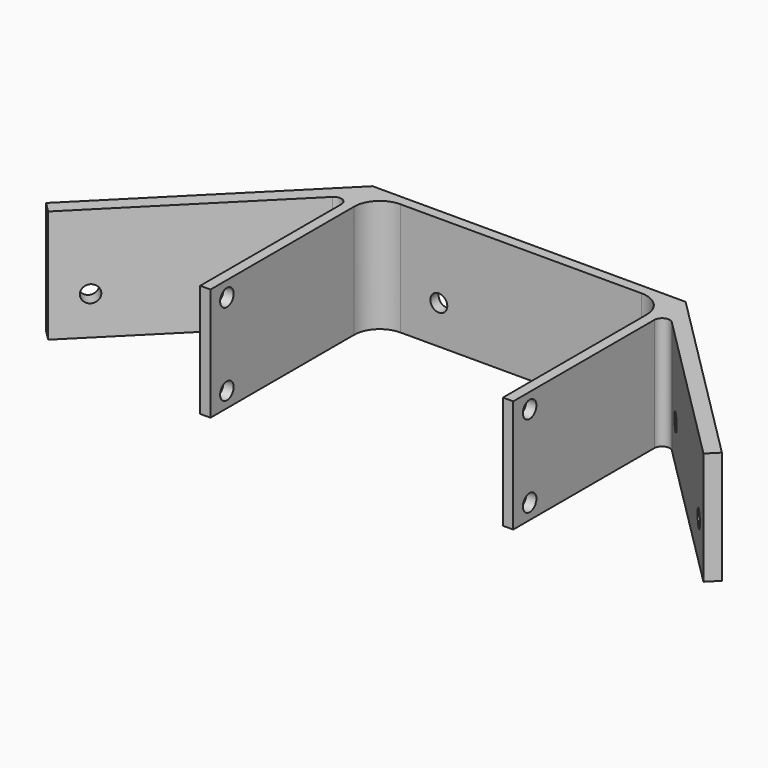
from build123d import *

# Parameters (mm, degrees)
F1_DEPTH  = 22
F3_D      = 3.3
F3_DEPTH  = 3
F3_TIP    = 0.9914200214
F4_R      = 1.5
F5_R      = 5
F7_D      = 3.3
F7_DEPTH  = 3
F7_TIP    = 0.9914200214
F9_D      = 3.3
F9_DEPTH  = 3
F9_TIP    = 0.9914200214
F11_D     = 3.3
F11_DEPTH = 63
F11_TIP   = 0.9914200214


with BuildPart() as f1:
    # F0 (on Top) → F1 (new body)
    with BuildSketch(Plane.XY):
        Polygon((-28.5, -20), (-28.5, 20), (28.5, 20), (28.5, -20), (30.5, -20), (30.5, 18), (63.8553390593, -15.3553390593), (65.8553390593, -13.3553390593), (30.5, 22), (-30.5, 22), (-65.8553390593, -13.3553390593), (-63.8553390593, -15.3553390593), (-30.5, 18), (-30.5, -20), align=None)
    extrude(amount=F1_DEPTH)

    # F3
    with Locations(Plane(origin=(26.25, 26.25, 0), x_dir=(-0.7071067812, 0.7071067812, 0), z_dir=(0.7071067812, 0.7071067812, 0))):
        with Locations((-17.5104076401, 7.5), (-49.5104076401, 7.5)):
            Hole(F3_D / 2, depth=F3_DEPTH)
            with Locations((0, 0, -(F3_DEPTH + F3_TIP / 2))):  # 118° drill point
                Cone(0, F3_D / 2, F3_TIP, mode=Mode.SUBTRACT)

    # F4
    f4_edges = [f1.edges().sort_by_distance(p)[0] for p in [
        (-30.5, 18, 11),
        (30.5, 18, 11),
    ]]
    fillet(f4_edges, radius=F4_R)

    # F5
    f5_edges = [f1.edges().sort_by_distance(p)[0] for p in [
        (-28.5, 20, 11),
        (28.5, 20, 11),
    ]]
    fillet(f5_edges, radius=F5_R)

    # F7
    with Locations(Plane(origin=(-26.25, 26.25, 0), x_dir=(-0.7071067812, -0.7071067812, 0), z_dir=(-0.7071067812, 0.7071067812, 0))):
        with Locations((17.5104076401, 7.5), (49.5104076401, 7.5)):
            Hole(F7_D / 2, depth=F7_DEPTH)
            with Locations((0, 0, -(F7_DEPTH + F7_TIP / 2))):  # 118° drill point
                Cone(0, F7_D / 2, F7_TIP, mode=Mode.SUBTRACT)

    # F9
    with Locations(Plane(origin=(0, 22, 0), x_dir=(-1, 0, 0), z_dir=(0, 1, 0))):
        with Locations((-16, 7.5), (16, 7.5)):
            Hole(F9_D / 2, depth=F9_DEPTH)
            with Locations((0, 0, -(F9_DEPTH + F9_TIP / 2))):  # 118° drill point
                Cone(0, F9_D / 2, F9_TIP, mode=Mode.SUBTRACT)

    # F11 (one way)
    with BuildSketch(Plane(origin=(-30.5, 0, 0), x_dir=(0, -1, 0), z_dir=(-1, 0, 0))):
        with Locations((16, 19), (16, 3)):
            Circle(F11_D / 2)
    extrude(amount=-F11_DEPTH, mode=Mode.SUBTRACT)
    with Locations(Plane(origin=(-30.5, 0, 0), x_dir=(0, -1, 0), z_dir=(-1, 0, 0))):
        with Locations((16, 19), (16, 3)):
            with Locations((0, 0, -(F11_DEPTH + F11_TIP / 2))):  # 118° drill point
                Cone(0, F11_D / 2, F11_TIP, mode=Mode.SUBTRACT)


solid = f1.part
